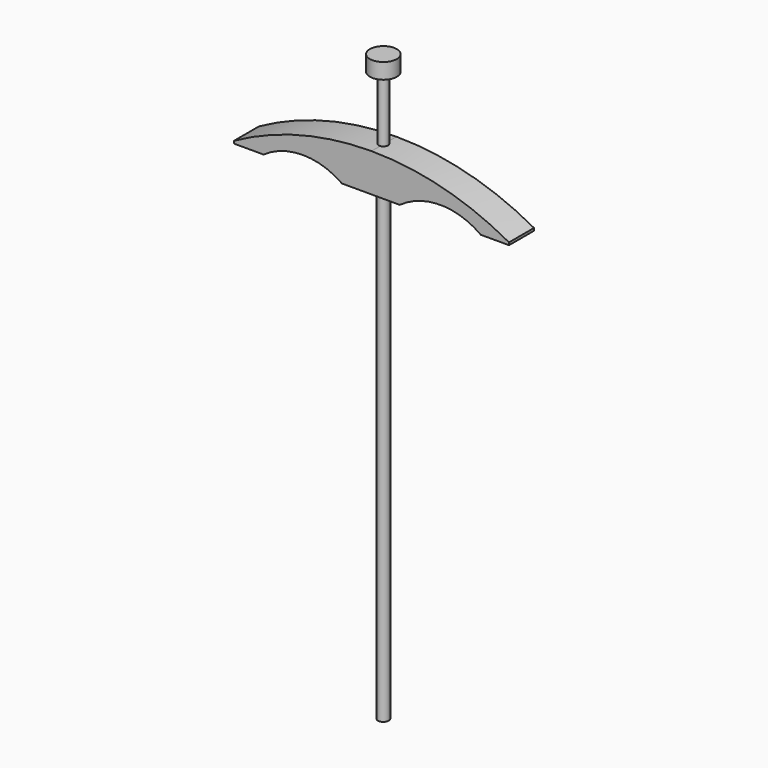
from build123d import *

# Parameters (mm, degrees)
F1_DEPTH = 10
F2_R     = 3
F3_DEPTH = 75
F4_R     = 3.5
F5_DEPTH = 300
F6_R     = 8.654538
F7_DEPTH = 10


with BuildPart() as f1:
    # F0 (on Front) → F1 (new body, symmetric)
    with BuildSketch(Plane.XZ):
        with BuildLine():
            Line((-97.826793, 111.769112), (-97.826793, 110.147078))
            Line((-97.826793, 110.147078), (-78.877119, 110.147078))
            ThreePointArc((-78.877119, 110.147078), (-53.760529, 118.103222), (-28.64394, 110.147078))
            Line((-28.64394, 110.147078), (-9.694265, 110.147078))
            Line((-9.694265, 110.147078), (-9.694265, 134.588813))
            ThreePointArc((-9.694265, 134.588813), (-55.213715, 128.791347), (-97.826793, 111.769112))
        make_face()
        with BuildLine():
            ThreePointArc((78.438263, 111.769112), (35.825185, 128.791347), (-9.694265, 134.588813))
            Line((-9.694265, 134.588813), (-9.694265, 110.147078))
            Line((-9.694265, 110.147078), (8.421366, 110.147078))
            ThreePointArc((8.421366, 110.147078), (34.371999, 118.588705), (60.322631, 110.147078))
            Line((60.322631, 110.147078), (78.438263, 110.147078))
            Line((78.438263, 110.147078), (78.438263, 111.769112))
        make_face()
    extrude(amount=F1_DEPTH, both=True)

    # F2 (on face) → F3 (join)
    with BuildSketch(Plane(origin=(0, 0, 110.147078), x_dir=(1, 0, 0), z_dir=(0, 0, -1))):
        with Locations((-10.111287, 0)):
            Circle(F2_R)
    extrude(amount=-F3_DEPTH)


with BuildPart() as f5:
    # F4 (on face) → F5 (new body)
    with BuildSketch(Plane(origin=(0, 0, 110.147078), x_dir=(1, 0, 0), z_dir=(0, 0, -1))):
        with Locations((-10.111287, 0)):
            Circle(F4_R)
    extrude(amount=F5_DEPTH)


with BuildPart() as f7:
    # F6 (on face) → F7 (new body)
    with BuildSketch(Plane.XY.offset(185.147078)):
        with Locations((-10.111287, 0)):
            Circle(F6_R)
    extrude(amount=-F7_DEPTH)


solid = Compound([f1.part, f5.part, f7.part])
